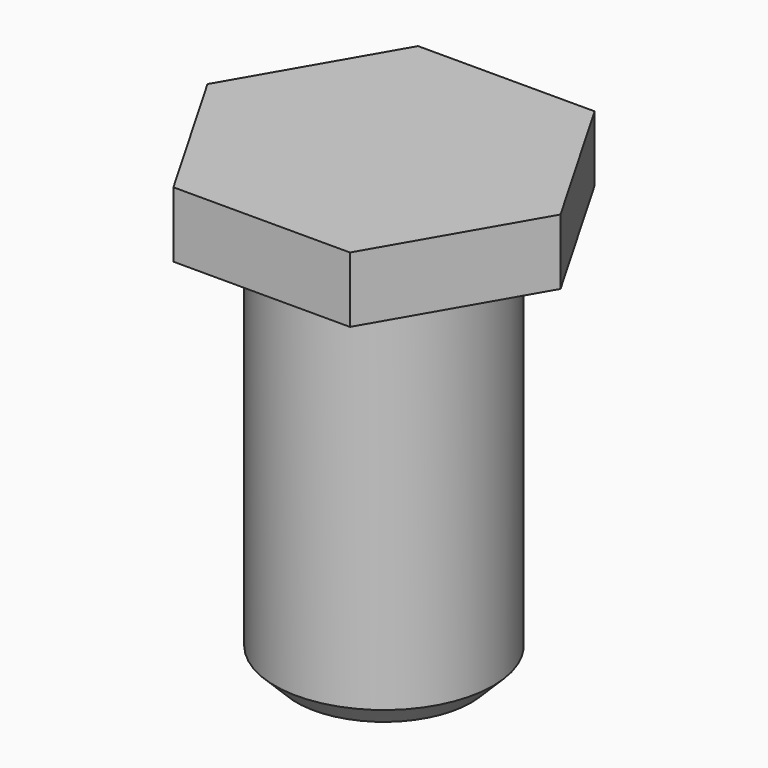
from build123d import *

# Parameters (mm, degrees)
F0_R     = 5
F1_DEPTH = 18
F2_SIZE2 = 1
F2_SIZE  = 1
F4_DEPTH = 3


with BuildPart() as f1:
    # F0 (on Top) → F1 (new body)
    with BuildSketch(Plane.XY):
        Circle(F0_R)
    extrude(amount=F1_DEPTH)

    # F2
    f2_edges = [f1.edges().sort_by_distance(p)[0] for p in [
        (-5, 0, 0),
    ]]
    chamfer(f2_edges, length=F2_SIZE, length2=F2_SIZE2)

    # F3 (on face) → F4 (join)
    with BuildSketch(Plane.XY.offset(18)):
        Polygon((8.082904, 0), (4.041452, 7), (-4.041452, 7), (-8.082904, 0), (-4.041452, -7), (4.041452, -7), align=None)
    extrude(amount=F4_DEPTH)


solid = f1.part
